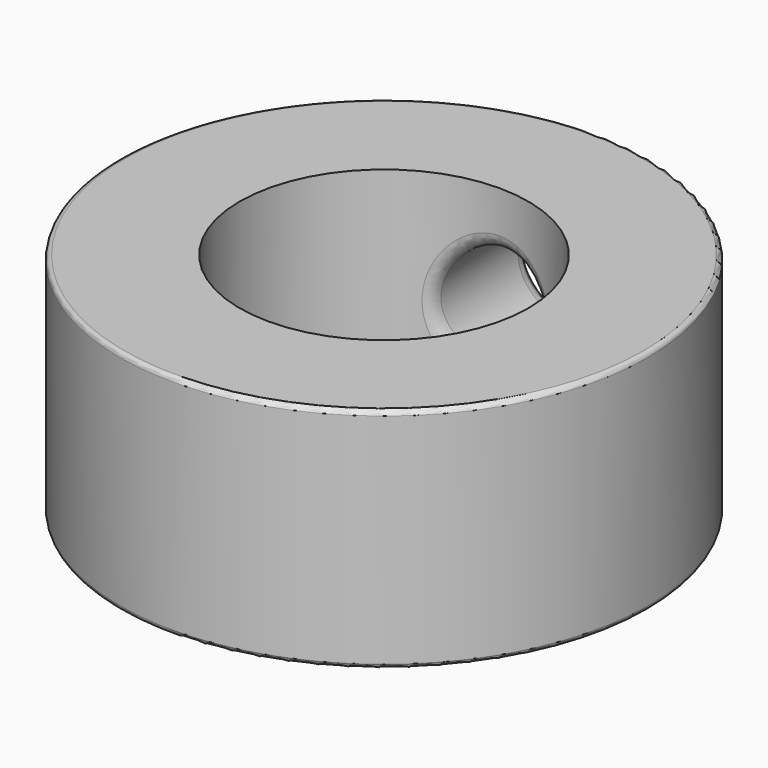
from build123d import *

# Parameters (mm, degrees)
F0_R     = 17.65
F0_R_2   = 9.65
F1_DEPTH = 15.2
F2_R     = 0.3
F3_R     = 3.8
F4_DEPTH = 24
F5_R     = 1
F6_R     = 1


with BuildPart() as f1:
    # F0 (on Top) → F1 (new body)
    with BuildSketch(Plane.XY):
        Circle(F0_R)
        Circle(F0_R_2, mode=Mode.SUBTRACT)
    extrude(amount=F1_DEPTH)

    # F2
    f2_edges = [f1.edges().sort_by_distance(p)[0] for p in [
        (-17.65, 0, 15.2),
        (17.65, 0, 7.6),
        (-17.65, 0, 0),
    ]]
    fillet(f2_edges, radius=F2_R)

    # F3 (on Front) → F4 (cut)
    with BuildSketch(Plane.XZ):
        with Locations((0, 7.6)):
            Circle(F3_R)
    extrude(amount=-F4_DEPTH, mode=Mode.SUBTRACT)

    # F5
    f5_edges = [f1.edges().sort_by_distance(p)[0] for p in [
        (-3.8, 17.236081, 7.6),
    ]]
    fillet(f5_edges, radius=F5_R)

    # F6
    f6_edges = [f1.edges().sort_by_distance(p)[0] for p in [
        (-3.8, 8.870316, 7.6),
    ]]
    fillet(f6_edges, radius=F6_R)


solid = f1.part
